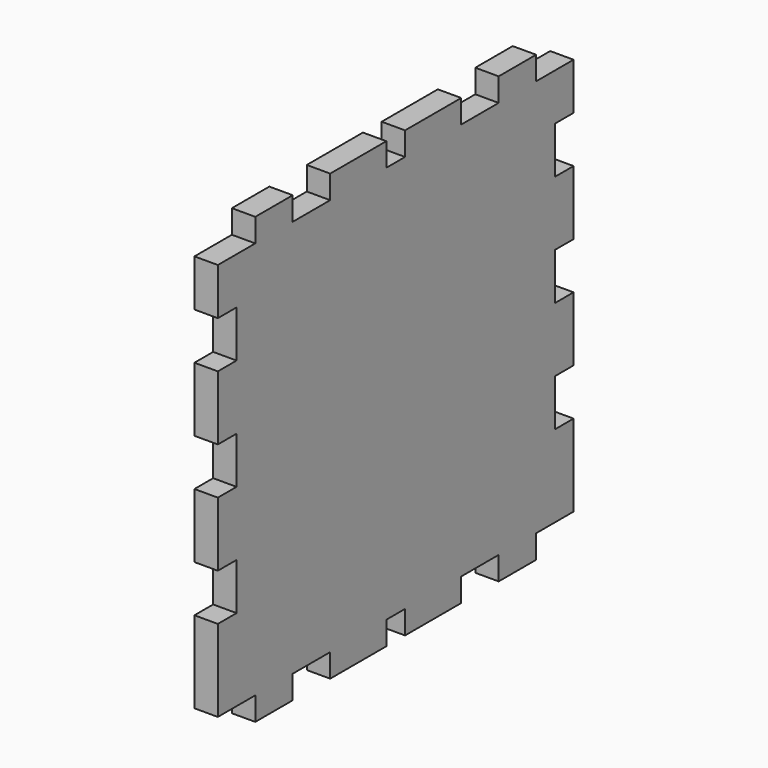
from build123d import *

# Parameters (mm, degrees)
F0_W      = 120.65
F0_H      = 120.65
F1_DEPTH  = 6.35
F2_W      = 12.7
F2_H      = 6.35
F3_DEPTH  = 6.351
F4_W      = 12.7
F4_H      = 6.35
F5_DEPTH  = 6.351
F6_W      = 6.35
F6_H      = 6.35
F7_DEPTH  = 6.351
F8_W      = 12.7
F8_H      = 6.35
F9_DEPTH  = 6.351
F10_W     = 12.7
F10_H     = 6.35
F11_DEPTH = 6.351
F12_W     = 6.35
F12_H     = 12.7
F13_DEPTH = 6.351
F14_W     = 6.35
F14_H     = 12.7
F15_DEPTH = 6.351
F16_W     = 6.35
F16_H     = 12.7
F17_DEPTH = 6.351
F18_W     = 12.7
F18_H     = 6.35
F19_DEPTH = 6.351
F20_W     = 12.7
F20_H     = 6.35
F20_W_2   = 6.35
F21_DEPTH = 6.351
F22_W     = 6.35
F22_H     = 12.7
F23_DEPTH = 6.351
F24_W     = 6.35
F24_H     = 12.7
F25_DEPTH = 6.351


with BuildPart() as f1:
    # F0 (on Right) → F1 (new body)
    with BuildSketch(Plane.YZ):
        Rectangle(F0_W, F0_H)
    extrude(amount=F1_DEPTH)

    # F2 (on face) → F3 (cut, through all)
    with BuildSketch(Plane(origin=(0, 0, 0), x_dir=(0, -1, 0), z_dir=(-1, 0, 0))):
        with Locations((53.975, 57.15)):
            Rectangle(F2_W, F2_H)
    extrude(amount=-F3_DEPTH, mode=Mode.SUBTRACT)

    # F4 (on face) → F5 (cut, through all)
    with BuildSketch(Plane(origin=(0, 0, 0), x_dir=(0, -1, 0), z_dir=(-1, 0, 0))):
        with Locations((28.575, 57.15)):
            Rectangle(F4_W, F4_H)
    extrude(amount=-F5_DEPTH, mode=Mode.SUBTRACT)

    # F6 (on face) → F7 (cut, through all)
    with BuildSketch(Plane(origin=(0, 0, 0), x_dir=(0, -1, 0), z_dir=(-1, 0, 0))):
        with Locations((0, 57.15)):
            Rectangle(F6_W, F6_H)
    extrude(amount=-F7_DEPTH, mode=Mode.SUBTRACT)

    # F8 (on face) → F9 (cut, through all)
    with BuildSketch(Plane(origin=(0, 0, 0), x_dir=(0, -1, 0), z_dir=(-1, 0, 0))):
        with Locations((-53.975, 57.15)):
            Rectangle(F8_W, F8_H)
    extrude(amount=-F9_DEPTH, mode=Mode.SUBTRACT)

    # F10 (on face) → F11 (cut, through all)
    with BuildSketch(Plane(origin=(0, 0, 0), x_dir=(0, -1, 0), z_dir=(-1, 0, 0))):
        with Locations((-28.575, 57.15)):
            Rectangle(F10_W, F10_H)
    extrude(amount=-F11_DEPTH, mode=Mode.SUBTRACT)

    # F12 (on face) → F13 (cut, through all)
    with BuildSketch(Plane(origin=(0, 0, 0), x_dir=(0, -1, 0), z_dir=(-1, 0, 0))):
        with Locations((-57.15, 34.925)):
            Rectangle(F12_W, F12_H)
    extrude(amount=-F13_DEPTH, mode=Mode.SUBTRACT)

    # F14 (on face) → F15 (cut, through all)
    with BuildSketch(Plane(origin=(0, 0, 0), x_dir=(0, -1, 0), z_dir=(-1, 0, 0))):
        with Locations((-57.15, 4.7625)):
            Rectangle(F14_W, F14_H)
    extrude(amount=-F15_DEPTH, mode=Mode.SUBTRACT)

    # F16 (on face) → F17 (cut, through all)
    with BuildSketch(Plane(origin=(0, 0, 0), x_dir=(0, -1, 0), z_dir=(-1, 0, 0))):
        with Locations((-57.15, -25.4)):
            Rectangle(F16_W, F16_H)
    extrude(amount=-F17_DEPTH, mode=Mode.SUBTRACT)

    # F18 (on face) → F19 (cut, through all)
    with BuildSketch(Plane(origin=(0, 0, 0), x_dir=(0, -1, 0), z_dir=(-1, 0, 0))):
        with Locations((-53.975, -57.15)):
            Rectangle(F18_W, F18_H)
        with Locations((53.975, -57.15)):
            Rectangle(F18_W, F18_H)
    extrude(amount=-F19_DEPTH, mode=Mode.SUBTRACT)

    # F20 (on face) → F21 (cut, through all)
    with BuildSketch(Plane(origin=(0, 0, 0), x_dir=(0, -1, 0), z_dir=(-1, 0, 0))):
        with Locations((-28.575, -57.15)):
            Rectangle(F20_W, F20_H)
        with Locations((0, -57.15)):
            Rectangle(F20_W_2, F20_H)
        with Locations((28.575, -57.15)):
            Rectangle(F20_W, F20_H)
    extrude(amount=-F21_DEPTH, mode=Mode.SUBTRACT)

    # F22 (on face) → F23 (cut, through all)
    with BuildSketch(Plane(origin=(0, 0, 0), x_dir=(0, -1, 0), z_dir=(-1, 0, 0))):
        with Locations((57.15, 34.925)):
            Rectangle(F22_W, F22_H)
        with Locations((57.15, 4.7625)):
            Rectangle(F22_W, F22_H)
    extrude(amount=-F23_DEPTH, mode=Mode.SUBTRACT)

    # F24 (on face) → F25 (cut, through all)
    with BuildSketch(Plane(origin=(0, 0, 0), x_dir=(0, -1, 0), z_dir=(-1, 0, 0))):
        with Locations((57.15, -25.4)):
            Rectangle(F24_W, F24_H)
    extrude(amount=-F25_DEPTH, mode=Mode.SUBTRACT)


solid = f1.part
